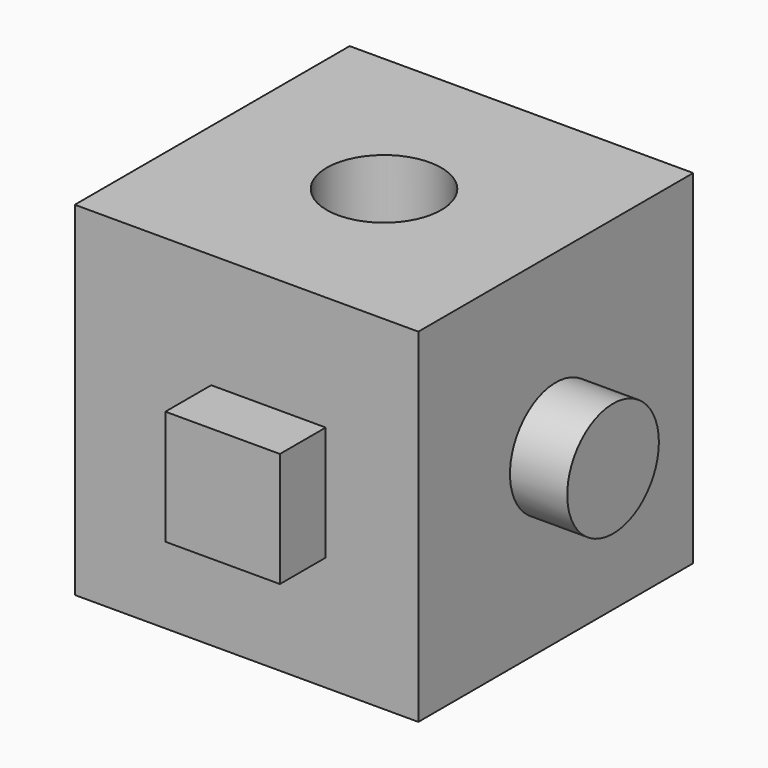
from build123d import *

# Parameters (mm, degrees)
F0_W      = 76.2
F0_H      = 76.2
F1_DEPTH  = 76.2
F2_W      = 25.4
F2_H      = 25.4
F3_DEPTH  = 12.7
F4_R      = 12.7
F5_DEPTH  = 12.7
F7_D      = 25.4
F9_DEPTH  = 12.7
F11_DEPTH = 12.7


with BuildPart() as f1:
    # F0 (on Front) → F1 (new body)
    with BuildSketch(Plane.XZ):
        with Locations((-17.554368, 37.4227)):
            Rectangle(F0_W, F0_H)
    extrude(amount=F1_DEPTH)

    # F2 (on face) → F3 (join)
    with BuildSketch(Plane.XZ.offset(76.2)):
        with Locations((-12.7, 37.4227)):
            Rectangle(F2_W, F2_H)
    extrude(amount=F3_DEPTH)

    # F4 (on face) → F5 (join)
    with BuildSketch(Plane.YZ.offset(20.545632)):
        with Locations((-38.1, 37.4227)):
            Circle(F4_R)
    extrude(amount=F5_DEPTH)

    # F7 (through all)
    with Locations(Plane.XY.offset(75.5227)):
        with Locations((-17.554368, -38.1)):
            Hole(F7_D / 2)

    # F8 (on face) → F9 (join)
    with BuildSketch(Plane(origin=(-55.654368, 0, 0), x_dir=(0, -1, 0), z_dir=(-1, 0, 0))):
        Polygon((46.53557, 34.294344), (34.590948, 52.495673), (23.120321, 34.294344), align=None)
    extrude(amount=F9_DEPTH)

    # F10 (on face) → F11 (join)
    with BuildSketch(Plane(origin=(0, 0, 0), x_dir=(-1, 0, 0), z_dir=(0, 1, 0))):
        Polygon((9.674511, 57.68837), (11.108014, 59.571687), (7.686859, 64.753473), (-7.840106, 32.313734), (39.842051, 14.852335), (42.817518, 59.571687), (16.907275, 57.68837), (23.262199, 42.698413), (24.467854, 43.567646), (32.056715, 52.438211), (34.606893, 24.81661), (0, 34.446057), align=None)
    extrude(amount=F11_DEPTH)


solid = f1.part
